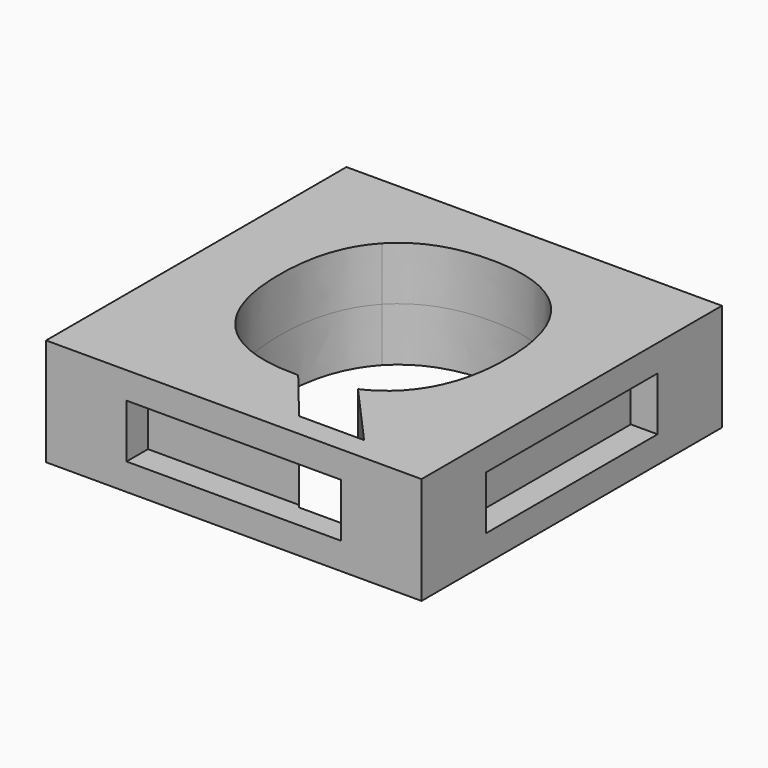
from build123d import *

# Parameters (mm, degrees)
F0_W     = 35.56
F0_H     = 35.56
F1_DEPTH = 5.08
F2_W     = 19.812
F2_H     = 4.572
F3_DEPTH = 2.54
F4_W     = 19.812
F4_H     = 4.572
F5_DEPTH = 2.54
F6_W     = 20.32
F6_H     = 5.08
F7_DEPTH = 2.54
F8_W     = 20.32
F8_H     = 5.08
F9_DEPTH = 2.54


with BuildPart() as f1:
    # F0 (on Top) → F1 (new body, symmetric)
    with BuildSketch(Plane.XY):
        Rectangle(F0_W, F0_H)
        with BuildLine():
            add(Edge.make_bspline(
                [(7.9151757813, 9.8549023438), (10.6833789063, 6.84609375), (10.6833789063, 1.2055078125)],
                knots=[0, 0, 0, 1, 1, 1], degree=2))
            add(Edge.make_bspline(
                [(10.6833789063, 1.2055078125), (10.6833789063, -2.79796875), (9.2645507813, -5.5016796875)],
                knots=[0, 0, 0, 1, 1, 1], degree=2))
            add(Edge.make_bspline(
                [(9.2645507813, -5.5016796875), (7.8457226563, -8.205390625), (5.1023242188, -9.4605078125)],
                knots=[0, 0, 0, 1, 1, 1], degree=2))
            Line((5.1023242188, -9.4605078125), (10.5593554688, -15.5575))
            Line((10.5593554688, -15.5575), (4.4028320313, -15.5575))
            Line((4.4028320313, -15.5575), (0.2505273438, -10.4725390625))
            Line((0.2505273438, -10.4725390625), (-0.1066601562, -10.4725390625))
            add(Edge.make_bspline(
                [(-0.1066601562, -10.4725390625), (-5.3156445312, -10.4725390625), (-8.106171875, -7.4488476563)],
                knots=[0, 0, 0, 1, 1, 1], degree=2))
            add(Edge.make_bspline(
                [(-8.106171875, -7.4488476563), (-10.8966992187, -4.42515625), (-10.8966992187, 1.2352734375)],
                knots=[0, 0, 0, 1, 1, 1], degree=2))
            add(Edge.make_bspline(
                [(-10.8966992187, 1.2352734375), (-10.8966992187, 6.895703125), (-8.0987304687, 9.8797070313)],
                knots=[0, 0, 0, 1, 1, 1], degree=2))
            add(Edge.make_bspline(
                [(-8.0987304687, 9.8797070313), (-5.3007617187, 12.8637109375), (-0.0768945312, 12.8637109375)],
                knots=[0, 0, 0, 1, 1, 1], degree=2))
            add(Edge.make_bspline(
                [(-0.0768945312, 12.8637109375), (5.1469726563, 12.8637109375), (7.9151757813, 9.8549023438)],
                knots=[0, 0, 0, 1, 1, 1], degree=2))
        make_face(mode=Mode.SUBTRACT)
    extrude(amount=F1_DEPTH, both=True)

    # F2 (on face) → F3 (join)
    with BuildSketch(Plane(origin=(0, 17.78, 0), x_dir=(-1, 0, 0), z_dir=(0, 1, 0))):
        Rectangle(F2_W, F2_H)
    extrude(amount=F3_DEPTH)

    # F4 (on face) → F5 (join)
    with BuildSketch(Plane(origin=(-17.78, 0, 0), x_dir=(0, -1, 0), z_dir=(-1, 0, 0))):
        Rectangle(F4_W, F4_H)
    extrude(amount=F5_DEPTH)

    # F6 (on face) → F7 (cut)
    with BuildSketch(Plane.XZ.offset(17.78)):
        Rectangle(F6_W, F6_H)
    extrude(amount=-F7_DEPTH, mode=Mode.SUBTRACT)

    # F8 (on face) → F9 (cut)
    with BuildSketch(Plane.YZ.offset(17.78)):
        Rectangle(F8_W, F8_H)
    extrude(amount=-F9_DEPTH, mode=Mode.SUBTRACT)


solid = f1.part
